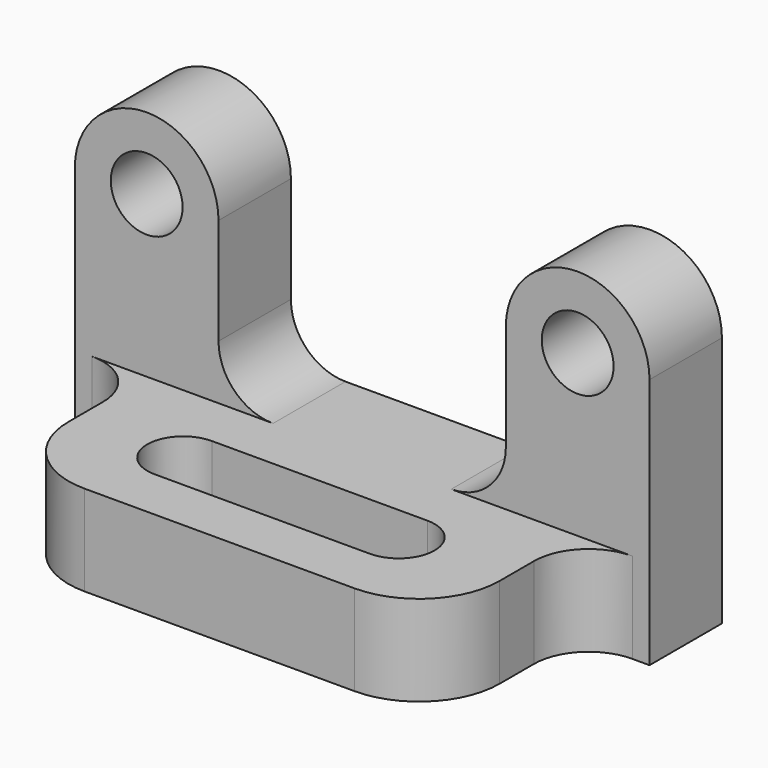
from build123d import *

# Parameters (mm, degrees)
F0_R     = 6.35
F1_DEPTH = 16.002
F2_R     = 9.652
F3_W     = 76.2
F3_H     = 31.496
F4_DEPTH = 16.002
F5_R     = 14.224
F6_R     = 9.652


with BuildPart() as f1:
    # F0 (on Front) → F1 (new body)
    with BuildSketch(Plane.XZ):
        with BuildLine():
            Line((-50.8, 44.45), (-50.8, 0))
            Line((-50.8, 0), (50.8, 0))
            Line((50.8, 0), (50.8, 44.45))
            ThreePointArc((50.8, 44.45), (38.1, 57.15), (25.4, 44.45))
            Line((25.4, 44.45), (25.4, 16.002))
            Line((25.4, 16.002), (-25.4, 16.002))
            Line((-25.4, 16.002), (-25.4, 44.45))
            ThreePointArc((-25.4, 44.45), (-38.1, 57.15), (-50.8, 44.45))
        make_face()
        with Locations((-38.1, 44.45)):
            Circle(F0_R, mode=Mode.SUBTRACT)
        with Locations((38.1, 44.45)):
            Circle(F0_R, mode=Mode.SUBTRACT)
    extrude(amount=-F1_DEPTH)

    # F2
    f2_edges = [f1.edges().sort_by_distance(p)[0] for p in [
        (-25.4, 8.001, 16.002),
        (25.4, 8.001, 16.002),
    ]]
    fillet(f2_edges, radius=F2_R)

    # F3 (on Top) → F4 (join)
    with BuildSketch(Plane.XY):
        with Locations((0, -15.748)):
            Rectangle(F3_W, F3_H)
        with BuildLine():
            ThreePointArc((-19.05, -22.098), (-25.4, -15.748), (-19.05, -9.398))
            Line((-19.05, -9.398), (19.05, -9.398))
            ThreePointArc((19.05, -9.398), (25.4, -15.748), (19.05, -22.098))
            Line((19.05, -22.098), (-19.05, -22.098))
        make_face(mode=Mode.SUBTRACT)
    extrude(amount=F4_DEPTH)

    # F5
    f5_edges = [f1.edges().sort_by_distance(p)[0] for p in [
        (38.1, -31.496, 8.001),
        (-38.1, -31.496, 8.001),
    ]]
    fillet(f5_edges, radius=F5_R)

    # F6
    f6_edges = [f1.edges().sort_by_distance(p)[0] for p in [
        (38.1, 0, 8.001),
        (-38.1, 0, 8.001),
    ]]
    fillet(f6_edges, radius=F6_R)


solid = f1.part
